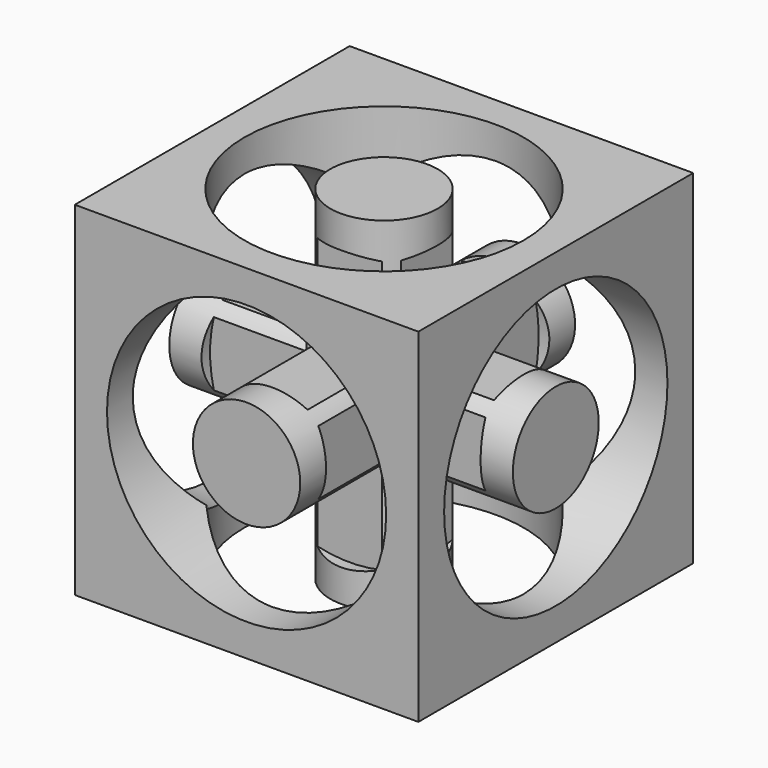
from build123d import *

# Parameters (mm, degrees)
F0_W      = 50.8
F0_H      = 50.8
F1_DEPTH  = 25.4
F2_R      = 20.6375
F2_R_2    = 7.9375
F3_DEPTH  = 19.05
F5_R      = 20.6375
F5_R_2    = 7.9375
F6_DEPTH  = 19.05
F7_R      = 20.6375
F7_R_2    = 7.9375
F8_DEPTH  = 19.05
F9_R      = 20.6375
F9_R_2    = 7.9375
F10_DEPTH = 19.05
F12_R     = 20.6375
F12_R_2   = 7.9375
F13_DEPTH = 19.05
F14_R     = 20.6375
F14_R_2   = 7.9375
F15_DEPTH = 19.05


with BuildPart() as f1:
    # F0 (on Front) → F1 (new body, symmetric)
    with BuildSketch(Plane.XZ):
        Rectangle(F0_W, F0_H)
    extrude(amount=F1_DEPTH, both=True)

    # F2 (on face) → F3 (cut)
    with BuildSketch(Plane.XZ.offset(25.4)):
        Circle(F2_R)
        Circle(F2_R_2, mode=Mode.SUBTRACT)
    extrude(amount=-F3_DEPTH, mode=Mode.SUBTRACT)

    # F5 (on face) → F6 (cut)
    with BuildSketch(Plane.YZ.offset(25.4)):
        Circle(F5_R)
        Circle(F5_R_2, mode=Mode.SUBTRACT)
    extrude(amount=-F6_DEPTH, mode=Mode.SUBTRACT)

    # F7 (on face) → F8 (cut)
    with BuildSketch(Plane.XY.offset(25.4)):
        Circle(F7_R)
        Circle(F7_R_2, mode=Mode.SUBTRACT)
    extrude(amount=-F8_DEPTH, mode=Mode.SUBTRACT)

    # F9 (on face) → F10 (cut)
    with BuildSketch(Plane(origin=(0, 0, -25.4), x_dir=(1, 0, 0), z_dir=(0, 0, -1))):
        Circle(F9_R)
        Circle(F9_R_2, mode=Mode.SUBTRACT)
    extrude(amount=-F10_DEPTH, mode=Mode.SUBTRACT)

    # F12 (on face) → F13 (cut)
    with BuildSketch(Plane(origin=(-25.4, 0, 0), x_dir=(0, -1, 0), z_dir=(-1, 0, 0))):
        Circle(F12_R)
        Circle(F12_R_2, mode=Mode.SUBTRACT)
    extrude(amount=-F13_DEPTH, mode=Mode.SUBTRACT)

    # F14 (on face) → F15 (cut)
    with BuildSketch(Plane(origin=(0, 25.4, 0), x_dir=(-1, 0, 0), z_dir=(0, 1, 0))):
        Circle(F14_R)
        Circle(F14_R_2, mode=Mode.SUBTRACT)
    extrude(amount=-F15_DEPTH, mode=Mode.SUBTRACT)


solid = f1.part
